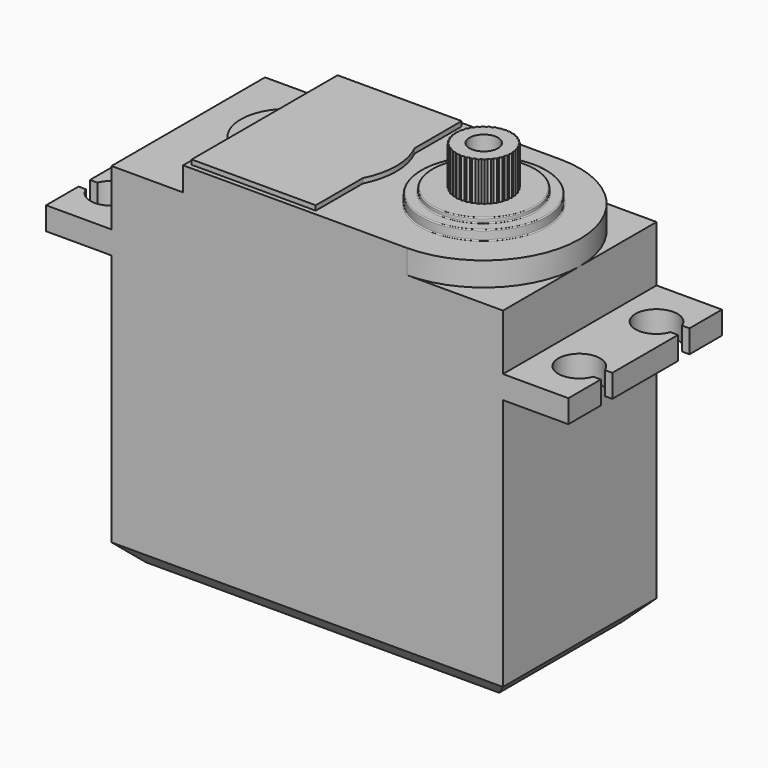
from build123d import *

# Parameters (mm, degrees)
F0_W      = 41
F0_H      = 20.1
F1_DEPTH  = 36.7
F3_DEPTH  = 2.5
F5_DEPTH  = 0.5
F6_R      = 6.55
F7_DEPTH  = 1
F8_R      = 5.375
F9_DEPTH  = 0.5
F12_DEPTH = 4.1
F13_SIZE  = 2
F15_W     = 6.85
F15_H     = 20.1
F16_DEPTH = 2.4
F18_DEPTH = 25
F19_R     = 0.1
F20_R     = 1.5
F21_DEPTH = 20
F23_DEPTH = 0.5


with BuildPart() as f1:
    # F0 (on Top) → F1 (new body)
    with BuildSketch(Plane.XY):
        with Locations((-10.45, 0)):
            Rectangle(F0_W, F0_H)
    extrude(amount=F1_DEPTH)

    # F2 (on face) → F3 (join)
    with BuildSketch(Plane.XY.offset(36.7)):
        with BuildLine():
            Line((-23.45, -10.05), (0, -10.05))
            ThreePointArc((0, -10.05), (10.05, 0), (0, 10.05))
            Line((0, 10.05), (-23.45, 10.05))
            Line((-23.45, 10.05), (-23.45, 4))
            ThreePointArc((-23.45, 4), (-25.45, 0), (-23.45, -4))
            Line((-23.45, -4), (-23.45, -10.05))
        make_face()
    extrude(amount=F3_DEPTH)

    # F4 (on face) → F5 (cut)
    with BuildSketch(Plane.XY.offset(39.2)):
        with BuildLine():
            Line((-23.45, -4), (-23.45, 4))
            ThreePointArc((-23.45, 4), (-25.45, 0), (-23.45, -4))
        make_face()
    extrude(amount=-F5_DEPTH, mode=Mode.SUBTRACT)

    # F6 (on face) → F7 (join)
    with BuildSketch(Plane.XY.offset(39.2)):
        Circle(F6_R)
    extrude(amount=F7_DEPTH)

    # F8 (on face) → F9 (join)
    with BuildSketch(Plane.XY.offset(40.2)):
        Circle(F8_R)
    extrude(amount=F9_DEPTH)

    # F11 (on face) → F12 (join)
    with BuildSketch(Plane.XY.offset(40.7)):
        Polygon((-0.2483938668, -2.8391548896), (0, -2.95), (0.2483938668, -2.8391548896), (0.5122621241, -2.9051828714), (0.7376342785, -2.7528886049), (1.0089594228, -2.7720932313), (1.204462046, -2.5829771931), (1.475, -2.5547749412), (1.6346928436, -2.3345833262), (1.8962234486, -2.2598311072), (2.0152543264, -2.0152543264), (2.2598311072, -1.8962234486), (2.3345833262, -1.6346928436), (2.5547749412, -1.475), (2.5829771931, -1.204462046), (2.7720932313, -1.0089594228), (2.7528886049, -0.7376342785), (2.9051828714, -0.5122621241), (2.8391548896, -0.2483938668), (2.95, 0), (2.8391548896, 0.2483938668), (2.9051828714, 0.5122621241), (2.7528886049, 0.7376342785), (2.7720932313, 1.0089594228), (2.5829771931, 1.204462046), (2.5547749412, 1.475), (2.3345833262, 1.6346928436), (2.2598311072, 1.8962234486), (2.0152543264, 2.0152543264), (1.8962234486, 2.2598311072), (1.6346928436, 2.3345833262), (1.475, 2.5547749412), (1.204462046, 2.5829771931), (1.0089594228, 2.7720932313), (0.7376342785, 2.7528886049), (0.5122621241, 2.9051828714), (0.2483938668, 2.8391548896), (0, 2.95), (-0.2483938668, 2.8391548896), (-0.5122621241, 2.9051828714), (-0.7376342785, 2.7528886049), (-1.0089594228, 2.7720932313), (-1.204462046, 2.5829771931), (-1.475, 2.5547749412), (-1.6346928436, 2.3345833262), (-1.8962234486, 2.2598311072), (-2.0152543264, 2.0152543264), (-2.2598311072, 1.8962234486), (-2.3345833262, 1.6346928436), (-2.5547749412, 1.475), (-2.5829771931, 1.204462046), (-2.7720932313, 1.0089594228), (-2.7528886049, 0.7376342785), (-2.9051828714, 0.5122621241), (-2.8391548896, 0.2483938668), (-2.95, 0), (-2.8391548896, -0.2483938668), (-2.9051828714, -0.5122621241), (-2.7528886049, -0.7376342785), (-2.7720932313, -1.0089594228), (-2.5829771931, -1.204462046), (-2.5547749412, -1.475), (-2.3345833262, -1.6346928436), (-2.2598311072, -1.8962234486), (-2.0152543264, -2.0152543264), (-1.8962234486, -2.2598311072), (-1.6346928436, -2.3345833262), (-1.475, -2.5547749412), (-1.204462046, -2.5829771931), (-1.0089594228, -2.7720932313), (-0.7376342785, -2.7528886049), (-0.5122621241, -2.9051828714), align=None)
    extrude(amount=F12_DEPTH)

    # F13
    f13_edges = [f1.edges().sort_by_distance(p)[0] for p in [
        (-10.45, 10.05, 0),
        (10.05, 0, 0),
        (-10.45, -10.05, 0),
        (-30.95, 0, 0),
    ]]
    chamfer(f13_edges, length=F13_SIZE)

    # F15 (on offset) → F16 (join)
    with BuildSketch(Plane.XY.offset(30.85)):
        Polygon((10.05, 10.05), (10.05, 0), (10.05, -10.05), (16.9, -10.05), (16.9, 10.05), align=None)
        with Locations((-34.375, 0)):
            Rectangle(F15_W, F15_H)
    extrude(amount=-F16_DEPTH)

    # F17 (on face) → F18 (cut)
    with BuildSketch(Plane.XY.offset(30.85)):
        with BuildLine():
            Line((-38.7193858624, 4.3), (-37.018211788, 4.3))
            ThreePointArc((-37.018211788, 4.3), (-32.75, 5.05), (-37.018211788, 5.8))
            Line((-37.018211788, 5.8), (-38.7193858624, 5.8))
            Line((-38.7193858624, 5.8), (-38.7193858624, 4.3))
        make_face()
        with BuildLine():
            Line((20.3046184033, 5.8), (16.118211788, 5.8))
            ThreePointArc((16.118211788, 5.8), (11.85, 5.05), (16.118211788, 4.3))
            Line((16.118211788, 4.3), (20.3046184033, 4.3))
            Line((20.3046184033, 4.3), (20.3046184033, 5.8))
        make_face()
        with BuildLine():
            Line((-38.7193858624, -4.3), (-38.7193858624, -5.8))
            Line((-38.7193858624, -5.8), (-37.018211788, -5.8))
            ThreePointArc((-37.018211788, -5.8), (-32.75, -5.05), (-37.018211788, -4.3))
            Line((-37.018211788, -4.3), (-38.7193858624, -4.3))
        make_face()
        with BuildLine():
            Line((16.118211788, -5.8), (20.3046184033, -5.8))
            Line((20.3046184033, -5.8), (20.3046184033, -4.3))
            Line((20.3046184033, -4.3), (16.118211788, -4.3))
            ThreePointArc((16.118211788, -4.3), (11.85, -5.05), (16.118211788, -5.8))
        make_face()
    extrude(amount=-F18_DEPTH, mode=Mode.SUBTRACT)

    # F19
    f19_edges = [f1.edges().sort_by_distance(p)[0] for p in [
        (-6.55, 0, 39.2),
        (-6.55, 0, 40.2),
        (-5.375, 0, 40.2),
        (-5.375, 0, 40.7),
    ]]
    fillet(f19_edges, radius=F19_R)

    # F20 (on face) → F21 (cut)
    with BuildSketch(Plane.XY.offset(44.8)):
        Circle(F20_R)
    extrude(amount=-F21_DEPTH, mode=Mode.SUBTRACT)

    # F22 (on face) → F23 (join)
    with BuildSketch(Plane.XY.offset(39.2)):
        with BuildLine():
            Line((-9.9580191225, 9.55), (-22.95, 9.55))
            Line((-22.95, 9.55), (-22.95, -9.55))
            Line((-22.95, -9.55), (-9.9580191225, -9.55))
            Line((-9.9580191225, -9.55), (-9.9580191225, -3.3863537817))
            ThreePointArc((-9.9580191225, -3.3863537817), (-9.15, 0), (-9.9580191225, 3.3863537817))
            Line((-9.9580191225, 3.3863537817), (-9.9580191225, 9.55))
        make_face()
    extrude(amount=F23_DEPTH)


solid = f1.part
